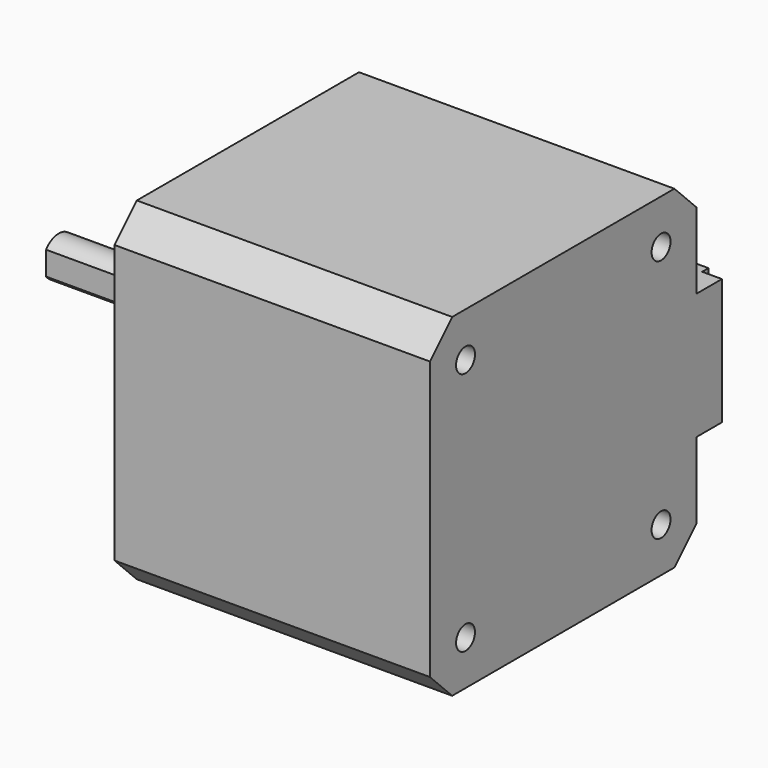
from build123d import *

# Parameters (mm, degrees)
PAD024_DEPTH            = 40
SKETCH001_R             = 1.5
HOLE_DEPTH              = 4.5
HOLE_TIPS_R             = 1.5
SKETCH002_R             = 1.5
HOLE001_DEPTH           = 4.5
HOLE001_TIPS_R          = 1.5
SKETCH003_R             = 11
PAD001_DEPTH            = 2
PAD002_DEPTH            = 22
SKETCH005_R             = 2.5
PAD003_DEPTH            = 3
SKETCH006_W             = 16
SKETCH006_H             = 4
PAD004_DEPTH            = 2.5
PAD005_DEPTH            = 5
SKETCH008_W             = 0.5
SKETCH008_H             = 0.5
PAD006_DEPTH            = 4
BODY007_PITCH_ANGLE     = 90
BODY007_PLACEMENT_ANGLE = -180


with BuildPart() as part:
    # Sketch061 → Pad024 (new body)
    with BuildSketch(Plane.XY):
        Polygon((-17.6144660941, 21.15), (17.6144660941, 21.15), (21.15, 17.6144660941), (21.15, -17.6144660941), (17.6144660941, -21.15), (-17.6144660941, -21.15), (-21.15, -17.6144660941), (-21.15, 17.6144660941), align=None)
    extrude(amount=PAD024_DEPTH)

    # Sketch001 (on Face10 of Pad024) → Hole (cut)
    with BuildSketch(Plane.XY.offset(40)):
        with Locations((15.5, 15.5)):
            Circle(SKETCH001_R)
        with Locations((-15.5, 15.5)):
            Circle(SKETCH001_R)
        with Locations((-15.5, -15.5)):
            Circle(SKETCH001_R)
        with Locations((15.5, -15.5)):
            Circle(SKETCH001_R)
    extrude(amount=-HOLE_DEPTH, mode=Mode.SUBTRACT)

    # Hole tips → Hole tip 1 section 0
    with BuildSketch(Plane.XY.offset(35.5), mode=Mode.PRIVATE) as hole_tip_1_s0:
        with Locations((15.5, 15.5)):
            Circle(HOLE_TIPS_R)
    loft([hole_tip_1_s0.sketch, Vertex(15.5, 15.5, 34.5987090715)], mode=Mode.SUBTRACT)

    # Hole tips → Hole tip 2 section 0
    with BuildSketch(Plane.XY.offset(35.5), mode=Mode.PRIVATE) as hole_tip_2_s0:
        with Locations((-15.5, 15.5)):
            Circle(HOLE_TIPS_R)
    loft([hole_tip_2_s0.sketch, Vertex(-15.5, 15.5, 34.5987090715)], mode=Mode.SUBTRACT)

    # Hole tips → Hole tip 3 section 0
    with BuildSketch(Plane.XY.offset(35.5), mode=Mode.PRIVATE) as hole_tip_3_s0:
        with Locations((-15.5, -15.5)):
            Circle(HOLE_TIPS_R)
    loft([hole_tip_3_s0.sketch, Vertex(-15.5, -15.5, 34.5987090715)], mode=Mode.SUBTRACT)

    # Hole tips → Hole tip 4 section 0
    with BuildSketch(Plane.XY.offset(35.5), mode=Mode.PRIVATE) as hole_tip_4_s0:
        with Locations((15.5, -15.5)):
            Circle(HOLE_TIPS_R)
    loft([hole_tip_4_s0.sketch, Vertex(15.5, -15.5, 34.5987090715)], mode=Mode.SUBTRACT)

    # Sketch002 → Hole001 (cut)
    with BuildSketch(Plane.XY):
        with Locations((-15.5, 15.5)):
            Circle(SKETCH002_R)
        with Locations((-15.5, -15.5)):
            Circle(SKETCH002_R)
        with Locations((15.5, -15.5)):
            Circle(SKETCH002_R)
        with Locations((15.5, 15.5)):
            Circle(SKETCH002_R)
    extrude(amount=HOLE001_DEPTH, mode=Mode.SUBTRACT)

    # Hole001 tips → Hole001 tip 1 section 0
    with BuildSketch(Plane.XY.offset(4.5), mode=Mode.PRIVATE) as hole001_tip_1_s0:
        with Locations((-15.5, 15.5)):
            Circle(HOLE001_TIPS_R)
    loft([hole001_tip_1_s0.sketch, Vertex(-15.5, 15.5, 5.4012909285)], mode=Mode.SUBTRACT)

    # Hole001 tips → Hole001 tip 2 section 0
    with BuildSketch(Plane.XY.offset(4.5), mode=Mode.PRIVATE) as hole001_tip_2_s0:
        with Locations((-15.5, -15.5)):
            Circle(HOLE001_TIPS_R)
    loft([hole001_tip_2_s0.sketch, Vertex(-15.5, -15.5, 5.4012909285)], mode=Mode.SUBTRACT)

    # Hole001 tips → Hole001 tip 3 section 0
    with BuildSketch(Plane.XY.offset(4.5), mode=Mode.PRIVATE) as hole001_tip_3_s0:
        with Locations((15.5, -15.5)):
            Circle(HOLE001_TIPS_R)
    loft([hole001_tip_3_s0.sketch, Vertex(15.5, -15.5, 5.4012909285)], mode=Mode.SUBTRACT)

    # Hole001 tips → Hole001 tip 4 section 0
    with BuildSketch(Plane.XY.offset(4.5), mode=Mode.PRIVATE) as hole001_tip_4_s0:
        with Locations((15.5, 15.5)):
            Circle(HOLE001_TIPS_R)
    loft([hole001_tip_4_s0.sketch, Vertex(15.5, 15.5, 5.4012909285)], mode=Mode.SUBTRACT)

    # Sketch003 (on Face5 of Hole001) → Pad001 (join)
    with BuildSketch(Plane.XY.offset(40)):
        Circle(SKETCH003_R)
    extrude(amount=PAD001_DEPTH)

    # Sketch004 (on Face27 of Pad001) → Pad002 (join)
    with BuildSketch(Plane.XY.offset(42)):
        with BuildLine():
            ThreePointArc((-1.5, 2), (0, -2.5), (1.5, 2))
            Line((-1.5, 2), (1.5, 2))
        make_face()
    extrude(amount=PAD002_DEPTH)

    # Sketch005 (on Face27 of Pad001) → Pad003 (join)
    with BuildSketch(Plane.XY.offset(42)):
        Circle(SKETCH005_R)
    extrude(amount=PAD003_DEPTH)

    # Sketch006 (on Face4 of Pad003) → Pad004 (join)
    with BuildSketch(Plane(origin=(0, 0, 0), x_dir=(1, 0, 0), z_dir=(0, 0, -1))):
        with Locations((0, 23.15)):
            Rectangle(SKETCH006_W, SKETCH006_H)
    extrude(amount=-PAD004_DEPTH)

    # Sketch007 (on Face10 of Pad004) → Pad005 (join)
    with BuildSketch(Plane.XZ.offset(21.15)):
        Polygon((-4.2, 9), (-8, 9), (-8, 2.5), (8, 2.5), (8, 9), (4.2, 9), (4.2, 8.4), (7.4, 8.4), (7.4, 3.1), (-7.4, 3.1), (-7.4, 8.4), (-4.2, 8.4), align=None)
    extrude(amount=PAD005_DEPTH)

    # Sketch008 (on Face10 of Pad005) → Pad006 (join)
    with BuildSketch(Plane.XZ.offset(21.15)):
        with Locations((-5.25, 6.35)):
            Rectangle(SKETCH008_W, SKETCH008_H)
        with Locations((-3.15, 6.35)):
            Rectangle(SKETCH008_W, SKETCH008_H)
        with Locations((-1.05, 6.35)):
            Rectangle(SKETCH008_W, SKETCH008_H)
        with Locations((1.05, 6.35)):
            Rectangle(SKETCH008_W, SKETCH008_H)
        with Locations((3.15, 6.35)):
            Rectangle(SKETCH008_W, SKETCH008_H)
        with Locations((5.25, 6.35)):
            Rectangle(SKETCH008_W, SKETCH008_H)
    extrude(amount=PAD006_DEPTH)


with BuildPart() as part_1:
    # Body007 pitch: moved
    add(part.part.rotate(Axis((0, 0, 0), (0, 1, 0)), BODY007_PITCH_ANGLE))


with BuildPart() as part_2:
    # Body007 placement: moved
    add(part_1.part.rotate(Axis((0, 0, 0), (0, 0, 1)), BODY007_PLACEMENT_ANGLE))


solid = part_2.part
